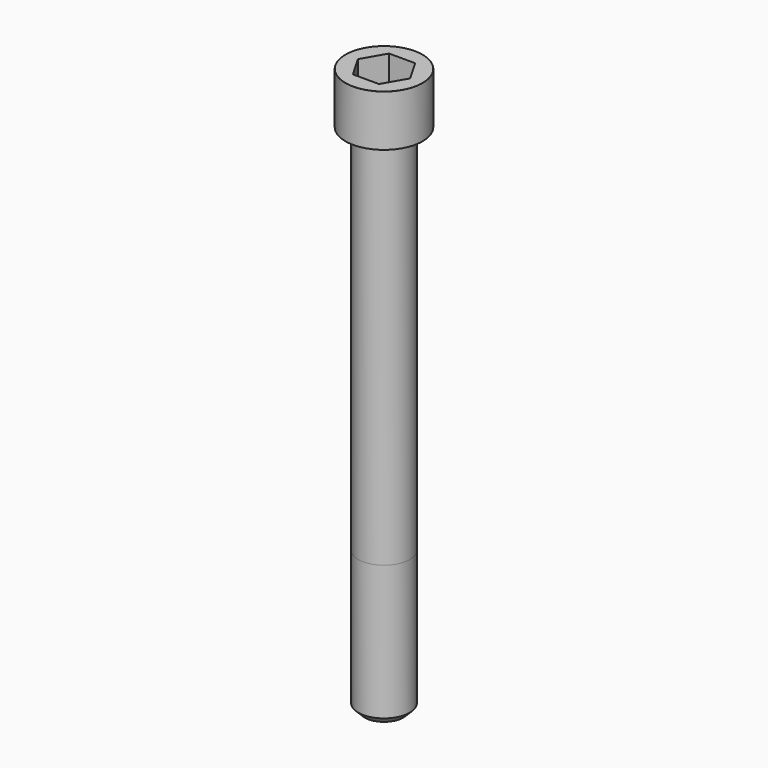
from build123d import *

# Parameters (mm, degrees)
POCKET_DEPTH = 14.08


with BuildPart() as part:
    # Sketch → Revolve (revolve)
    with BuildSketch(Plane.YZ):
        with BuildLine():
            Line((7.999, 0), (12, 0))
            Line((12, 0), (12, 15.97229))
            ThreePointArc((12, 15.97229), (11.991884, 15.991884), (11.97229, 16))
            Line((11.97229, 16), (0, 16))
            Line((0, -160), (0, 16))
            Line((6, -160), (0, -160))
            Line((8, -158), (6, -160))
            Line((8, -116), (8, -158))
            Line((7.999, 0), (8, -116))
        make_face()
    revolve(axis=Axis((0, 0, 0), (0, 0, 1)))

    # Sketch001 → Pocket (cut)
    with BuildSketch(Plane.XY.offset(16)):
        Polygon((8.129092, 0), (4.064546, 7.04), (-4.064546, 7.04), (-8.129092, 0), (-4.064546, -7.04), (4.064546, -7.04), align=None)
    extrude(amount=-POCKET_DEPTH, mode=Mode.SUBTRACT)


solid = part.part
